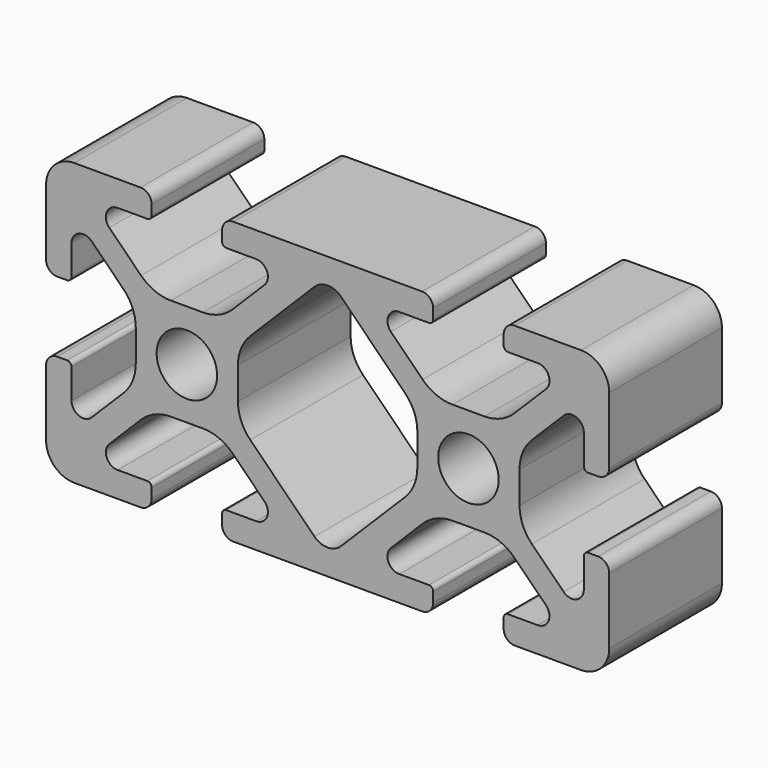
from build123d import *

# Parameters (mm, degrees)
F0_R     = 2.1463
F1_DEPTH = 10


with BuildPart() as f1:
    # F0 (on Front) → F1 (new body)
    with BuildSketch(Plane.XZ):
        with BuildLine():
            Line((-9.75241, 4.759444), (-12.019248, 4.759444))
            ThreePointArc((-12.019248, 4.759444), (-13.166227, 4.987592), (-14.138589, 5.637303))
            Line((-14.138589, 5.637303), (-16.393426, 7.892141))
            ThreePointArc((-16.393426, 7.892141), (-16.575125, 8.805603), (-15.800729, 9.323038))
            Line((-15.800729, 9.323038), (-13.692529, 9.323038))
            ThreePointArc((-13.692529, 9.323038), (-13.477003, 9.412312), (-13.387729, 9.627838))
            Line((-13.387729, 9.627838), (-13.387729, 10.339038))
            ThreePointArc((-13.387729, 10.339038), (-13.618353, 10.895814), (-14.175129, 11.126438))
            Line((-14.175129, 11.126438), (-18.874129, 11.126438))
            ThreePointArc((-18.874129, 11.126438), (-20.29301, 10.538718), (-20.880729, 9.119838))
            Line((-20.880729, 9.119838), (-20.880729, 4.420838))
            ThreePointArc((-20.880729, 4.420838), (-20.650105, 3.864062), (-20.093329, 3.633438))
            Line((-20.093329, 3.633438), (-19.382129, 3.633438))
            ThreePointArc((-19.382129, 3.633438), (-19.166603, 3.722712), (-19.077329, 3.938238))
            Line((-19.077329, 3.938238), (-19.077329, 6.046438))
            ThreePointArc((-19.077329, 6.046438), (-18.559895, 6.820834), (-17.646432, 6.639135))
            Line((-17.646432, 6.639135), (-15.391595, 4.384297))
            ThreePointArc((-15.391595, 4.384297), (-14.741884, 3.411936), (-14.513736, 2.264957))
            Line((-14.513736, 2.264957), (-14.513736, -0.001881))
            ThreePointArc((-14.513736, -0.001881), (-14.741884, -1.14886), (-15.391595, -2.121222))
            Line((-15.391595, -2.121222), (-17.646432, -4.376059))
            ThreePointArc((-17.646432, -4.376059), (-18.559895, -4.557758), (-19.077329, -3.783362))
            Line((-19.077329, -3.783362), (-19.077329, -1.675162))
            ThreePointArc((-19.077329, -1.675162), (-19.166603, -1.459636), (-19.382129, -1.370362))
            Line((-19.382129, -1.370362), (-20.093329, -1.370362))
            ThreePointArc((-20.093329, -1.370362), (-20.650105, -1.600986), (-20.880729, -2.157762))
            Line((-20.880729, -2.157762), (-20.880729, -6.856762))
            ThreePointArc((-20.880729, -6.856762), (-20.29301, -8.275643), (-18.874129, -8.863362))
            Line((-18.874129, -8.863362), (-14.175129, -8.863362))
            ThreePointArc((-14.175129, -8.863362), (-13.618353, -8.632738), (-13.387729, -8.075962))
            Line((-13.387729, -8.075962), (-13.387729, -7.364762))
            ThreePointArc((-13.387729, -7.364762), (-13.477003, -7.149236), (-13.692529, -7.059962))
            Line((-13.692529, -7.059962), (-15.800729, -7.059962))
            ThreePointArc((-15.800729, -7.059962), (-16.575125, -6.542528), (-16.393426, -5.629065))
            Line((-16.393426, -5.629065), (-14.138589, -3.374228))
            ThreePointArc((-14.138589, -3.374228), (-13.166227, -2.724517), (-12.019248, -2.496368))
            Line((-12.019248, -2.496368), (-9.75241, -2.496368))
            ThreePointArc((-9.75241, -2.496368), (-8.605431, -2.724517), (-7.63307, -3.374228))
            Line((-7.63307, -3.374228), (-5.378232, -5.629065))
            ThreePointArc((-5.378232, -5.629065), (-5.196534, -6.542528), (-5.970929, -7.059962))
            Line((-5.970929, -7.059962), (-8.079129, -7.059962))
            ThreePointArc((-8.079129, -7.059962), (-8.294656, -7.149236), (-8.383929, -7.364762))
            Line((-8.383929, -7.364762), (-8.383929, -8.075962))
            ThreePointArc((-8.383929, -8.075962), (-8.153305, -8.632738), (-7.596529, -8.863362))
            Line((-7.596529, -8.863362), (5.814671, -8.863362))
            ThreePointArc((5.814671, -8.863362), (6.371447, -8.632738), (6.602071, -8.075962))
            Line((6.602071, -8.075962), (6.602071, -7.364762))
            ThreePointArc((6.602071, -7.364762), (6.512797, -7.149236), (6.297271, -7.059962))
            Line((6.297271, -7.059962), (4.189071, -7.059962))
            ThreePointArc((4.189071, -7.059962), (3.414675, -6.542528), (3.596374, -5.629065))
            Line((3.596374, -5.629065), (5.851211, -3.374228))
            ThreePointArc((5.851211, -3.374228), (6.823573, -2.724517), (7.970552, -2.496368))
            Line((7.970552, -2.496368), (10.23739, -2.496368))
            ThreePointArc((10.23739, -2.496368), (11.384369, -2.724517), (12.35673, -3.374228))
            Line((12.35673, -3.374228), (14.611568, -5.629065))
            ThreePointArc((14.611568, -5.629065), (14.793266, -6.542528), (14.018871, -7.059962))
            Line((14.018871, -7.059962), (11.910671, -7.059962))
            ThreePointArc((11.910671, -7.059962), (11.695144, -7.149236), (11.605871, -7.364762))
            Line((11.605871, -7.364762), (11.605871, -8.075962))
            ThreePointArc((11.605871, -8.075962), (11.836495, -8.632738), (12.393271, -8.863362))
            Line((12.393271, -8.863362), (17.092271, -8.863362))
            ThreePointArc((17.092271, -8.863362), (18.511151, -8.275643), (19.098871, -6.856762))
            Line((19.098871, -6.856762), (19.098871, -2.157762))
            ThreePointArc((19.098871, -2.157762), (18.868247, -1.600986), (18.311471, -1.370362))
            Line((18.311471, -1.370362), (17.600271, -1.370362))
            ThreePointArc((17.600271, -1.370362), (17.384744, -1.459636), (17.295471, -1.675162))
            Line((17.295471, -1.675162), (17.295471, -3.783362))
            ThreePointArc((17.295471, -3.783362), (16.778036, -4.557758), (15.864574, -4.376059))
            Line((15.864574, -4.376059), (13.609736, -2.121222))
            ThreePointArc((13.609736, -2.121222), (12.960025, -1.14886), (12.731877, -0.001881))
            Line((12.731877, -0.001881), (12.731877, 2.264957))
            ThreePointArc((12.731877, 2.264957), (12.960025, 3.411936), (13.609736, 4.384297))
            Line((13.609736, 4.384297), (15.864574, 6.639135))
            ThreePointArc((15.864574, 6.639135), (16.778036, 6.820834), (17.295471, 6.046438))
            Line((17.295471, 6.046438), (17.295471, 3.938238))
            ThreePointArc((17.295471, 3.938238), (17.384744, 3.722712), (17.600271, 3.633438))
            Line((17.600271, 3.633438), (18.311471, 3.633438))
            ThreePointArc((18.311471, 3.633438), (18.868247, 3.864062), (19.098871, 4.420838))
            Line((19.098871, 4.420838), (19.098871, 9.119838))
            ThreePointArc((19.098871, 9.119838), (18.511151, 10.538718), (17.092271, 11.126438))
            Line((17.092271, 11.126438), (12.393271, 11.126438))
            ThreePointArc((12.393271, 11.126438), (11.836495, 10.895814), (11.605871, 10.339038))
            Line((11.605871, 10.339038), (11.605871, 9.627838))
            ThreePointArc((11.605871, 9.627838), (11.695144, 9.412312), (11.910671, 9.323038))
            Line((11.910671, 9.323038), (14.018871, 9.323038))
            ThreePointArc((14.018871, 9.323038), (14.793266, 8.805603), (14.611568, 7.892141))
            Line((14.611568, 7.892141), (12.35673, 5.637303))
            ThreePointArc((12.35673, 5.637303), (11.384369, 4.987592), (10.23739, 4.759444))
            Line((10.23739, 4.759444), (7.970552, 4.759444))
            ThreePointArc((7.970552, 4.759444), (6.823573, 4.987592), (5.851211, 5.637303))
            Line((5.851211, 5.637303), (3.596374, 7.892141))
            ThreePointArc((3.596374, 7.892141), (3.414675, 8.805603), (4.189071, 9.323038))
            Line((4.189071, 9.323038), (6.297271, 9.323038))
            ThreePointArc((6.297271, 9.323038), (6.512797, 9.412312), (6.602071, 9.627838))
            Line((6.602071, 9.627838), (6.602071, 10.339038))
            ThreePointArc((6.602071, 10.339038), (6.371447, 10.895814), (5.814671, 11.126438))
            Line((5.814671, 11.126438), (-7.596529, 11.126438))
            ThreePointArc((-7.596529, 11.126438), (-8.153305, 10.895814), (-8.383929, 10.339038))
            Line((-8.383929, 10.339038), (-8.383929, 9.627838))
            ThreePointArc((-8.383929, 9.627838), (-8.294656, 9.412312), (-8.079129, 9.323038))
            Line((-8.079129, 9.323038), (-5.970929, 9.323038))
            ThreePointArc((-5.970929, 9.323038), (-5.196534, 8.805603), (-5.378232, 7.892141))
            Line((-5.378232, 7.892141), (-7.63307, 5.637303))
            ThreePointArc((-7.63307, 5.637303), (-8.605431, 4.987592), (-9.75241, 4.759444))
        make_face()
        with Locations((-10.885829, 1.131538)):
            Circle(F0_R, mode=Mode.SUBTRACT)
        with BuildLine():
            Line((-7.257923, -0.001881), (-7.257923, 2.264957))
            ThreePointArc((-7.257923, 2.264957), (-7.029775, 3.411936), (-6.380064, 4.384297))
            Line((-6.380064, 4.384297), (-1.83051, 8.933851))
            ThreePointArc((-1.83051, 8.933851), (-0.890929, 9.323038), (0.048652, 8.933851))
            Line((0.048652, 8.933851), (4.598205, 4.384297))
            ThreePointArc((4.598205, 4.384297), (5.247916, 3.411936), (5.476064, 2.264957))
            Line((5.476064, 2.264957), (5.476064, -0.001881))
            ThreePointArc((5.476064, -0.001881), (5.247916, -1.14886), (4.598205, -2.121222))
            Line((4.598205, -2.121222), (0.048652, -6.670775))
            ThreePointArc((0.048652, -6.670775), (-0.890929, -7.059962), (-1.83051, -6.670775))
            Line((-1.83051, -6.670775), (-6.380064, -2.121222))
            ThreePointArc((-6.380064, -2.121222), (-7.029775, -1.14886), (-7.257923, -0.001881))
        make_face(mode=Mode.SUBTRACT)
        with Locations((9.103971, 1.131538)):
            Circle(F0_R, mode=Mode.SUBTRACT)
    extrude(amount=F1_DEPTH)


solid = f1.part
